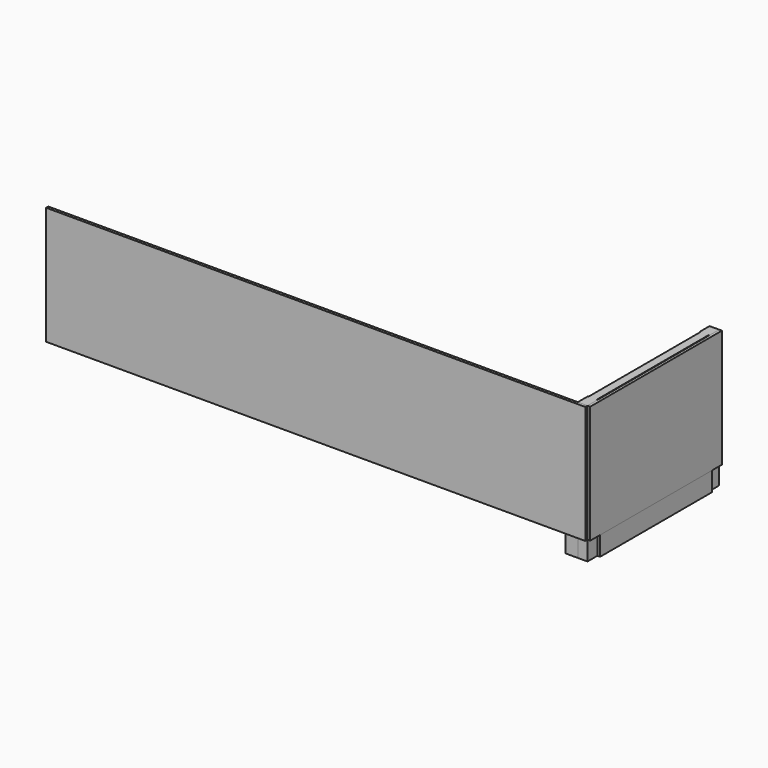
from build123d import *

# Parameters (mm, degrees)
F1_DEPTH  = 500
F2_W      = 30
F2_H      = 20
F3_DEPTH  = 570
F4_W      = 45
F4_H      = 70
F5_DEPTH  = 610
F6_W      = 1965
F6_H      = 430
F7_DEPTH  = 10
F8_W      = 600
F8_H      = 430
F9_DEPTH  = 10
F11_DEPTH = 20
F12_W     = 45
F12_H     = 70
F13_DEPTH = 510


with BuildPart() as f1:
    # F0 (on Top) → F1 (new body)
    with BuildSketch(Plane.XY):
        Polygon((17.5, 300), (-17.5, 300), (-17.5, 255), (-5, 255), (-5, 285), (5, 285), (5, 255), (17.5, 255), align=None)
        Polygon((-5, -255), (-17.5, -255), (-17.5, -300), (17.5, -300), (17.5, -255), (5, -255), (5, -285), (-5, -285), align=None)
    extrude(amount=F1_DEPTH)

    # F2 (on face) → F3 (join, through all)
    with BuildSketch(Plane.XZ.offset(-285)):
        with Locations((0, 490)):
            Rectangle(F2_W, F2_H)
    extrude(amount=F3_DEPTH)


with BuildPart() as f5:
    # F4 (on face) → F5 (new body)
    with BuildSketch(Plane.XZ.offset(300)):
        with Locations((-40, 35)):
            Rectangle(F4_W, F4_H)
    extrude(amount=-F5_DEPTH)


with BuildPart() as f7:
    # F6 (on face) → F7 (new body)
    with BuildSketch(Plane.XZ.offset(300)):
        with Locations((-965, 285)):
            Rectangle(F6_W, F6_H)
    extrude(amount=F7_DEPTH)


with BuildPart() as f9:
    # F8 (on face) → F9 (new body)
    with BuildSketch(Plane.YZ.offset(17.5)):
        with Locations((0, 285)):
            Rectangle(F8_W, F8_H)
    extrude(amount=F9_DEPTH)


with BuildPart() as f11:
    # F10 (on face) → F11 (new body)
    with BuildSketch(Plane.XY.offset(70)):
        Polygon((-17.5, -255), (-5, -255), (-5, 255), (-17.5, 255), (-17.5, 300), (-947.5, 300), (-947.5, 255), (-960, 255), (-960, -255), (-947.5, -255), (-947.5, -300), (-17.5, -300), align=None)
    extrude(amount=F11_DEPTH)


with BuildPart() as f13:
    # F12 (on face) → F13 (new body, through all)
    with BuildSketch(Plane.XZ.offset(-255)):
        with Locations((5, 35)):
            Rectangle(F12_W, F12_H)
    extrude(amount=F13_DEPTH)


solid = Compound([f1.part, f5.part, f7.part, f9.part, f11.part, f13.part])
